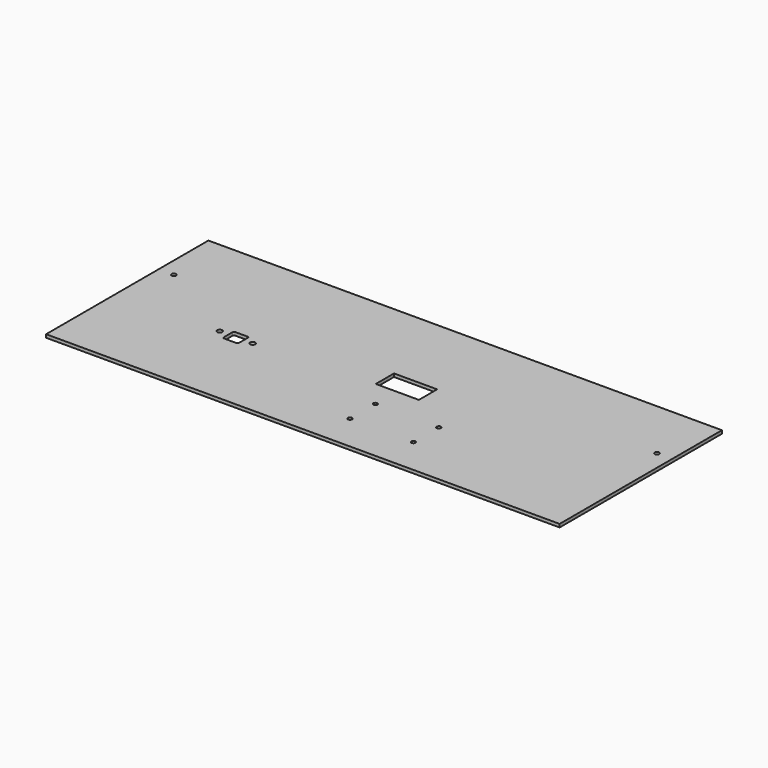
from build123d import *

# Parameters (mm, degrees)
F0_W     = 405
F0_H     = 160
F1_DEPTH = 2.5
F3_R     = 2
F4_DEPTH = 25
F5_W     = 34
F5_H     = 18
F5_R     = 1.65
F6_DEPTH = 25
F2_R     = 1.75
F7_DEPTH = 25


with BuildPart() as f1:
    # F0 (on Top) → F1 (new body)
    with BuildSketch(Plane.XY):
        with Locations((202.5, 80)):
            Rectangle(F0_W, F0_H)
    extrude(amount=F1_DEPTH)

    # F3 (on face) → F4 (cut)
    with BuildSketch(Plane.XY.offset(2.5)):
        with BuildLine():
            Line((99, 75), (89, 75))
            ThreePointArc((89, 75), (88.292893, 74.707107), (88, 74))
            Line((88, 74), (88, 65))
            ThreePointArc((88, 65), (88.292893, 64.292893), (89, 64))
            Line((89, 64), (99, 64))
            ThreePointArc((99, 64), (99.707107, 64.292893), (100, 65))
            Line((100, 65), (100, 74))
            ThreePointArc((100, 74), (99.707107, 74.707107), (99, 75))
        make_face()
        with Locations((81, 69.958977)):
            Circle(F3_R)
        with Locations((107, 69.958977)):
            Circle(F3_R)
    extrude(amount=-F4_DEPTH, mode=Mode.SUBTRACT)

    # F5 (on face) → F6 (cut)
    with BuildSketch(Plane.XY.offset(2.5)):
        with Locations((217, 84)):
            Rectangle(F5_W, F5_H)
        with Locations((216.5, 54)):
            Circle(F5_R)
        with Locations((266.5, 54)):
            Circle(F5_R)
        with Locations((266.5, 29)):
            Circle(F5_R)
        with Locations((216.5, 29)):
            Circle(F5_R)
    extrude(amount=-F6_DEPTH, mode=Mode.SUBTRACT)

    # F2 (on face) → F7 (cut)
    with BuildSketch(Plane.XY.offset(2.5)):
        with Locations((12, 111)):
            Circle(F2_R)
        with Locations((393, 111)):
            Circle(F2_R)
    extrude(amount=-F7_DEPTH, mode=Mode.SUBTRACT)


solid = f1.part
